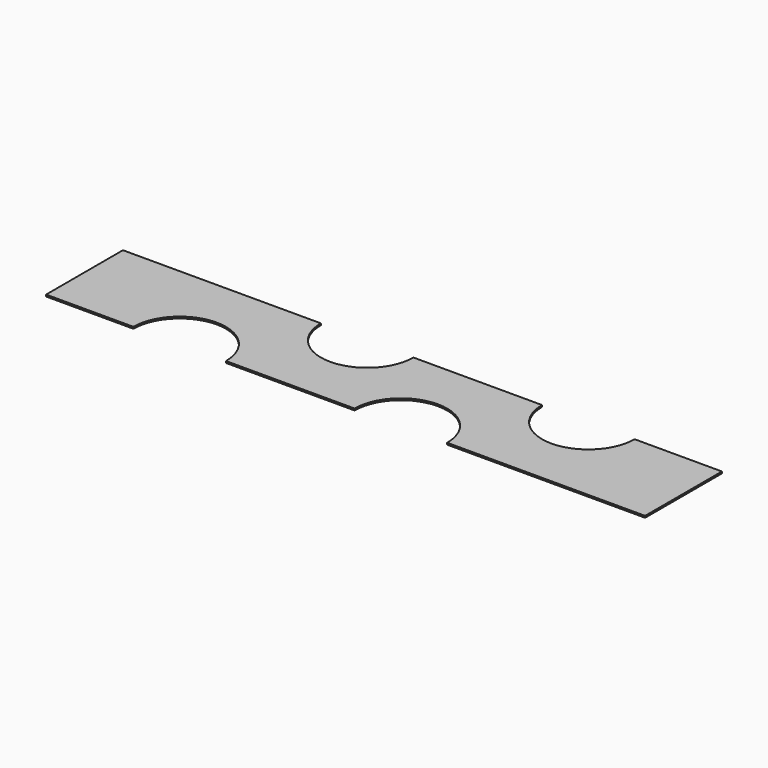
from build123d import *

# Parameters (mm, degrees)
F1_DEPTH = 0.3


with BuildPart() as f1:
    # F0 (on Top) → F1 (new body)
    with BuildSketch(Plane.XY):
        with BuildLine():
            ThreePointArc((53, -8.25), (60.95, -0.3), (68.9, -8.25))
            Line((68.9, -8.25), (102.9, -8.25))
            Line((102.9, -8.25), (102.9, 8.25))
            Line((102.9, 8.25), (87.9, 8.25))
            ThreePointArc((87.9, 8.25), (79.95, 0.3), (72, 8.25))
            Line((72, 8.25), (49.9, 8.25))
            ThreePointArc((49.9, 8.25), (41.95, 0.3), (34, 8.25))
            Line((34, 8.25), (0, 8.25))
            Line((0, 8.25), (0, -8.25))
            Line((0, -8.25), (15, -8.25))
            ThreePointArc((15, -8.25), (22.95, -0.3), (30.9, -8.25))
            Line((30.9, -8.25), (53, -8.25))
        make_face()
    extrude(amount=F1_DEPTH)


solid = f1.part
